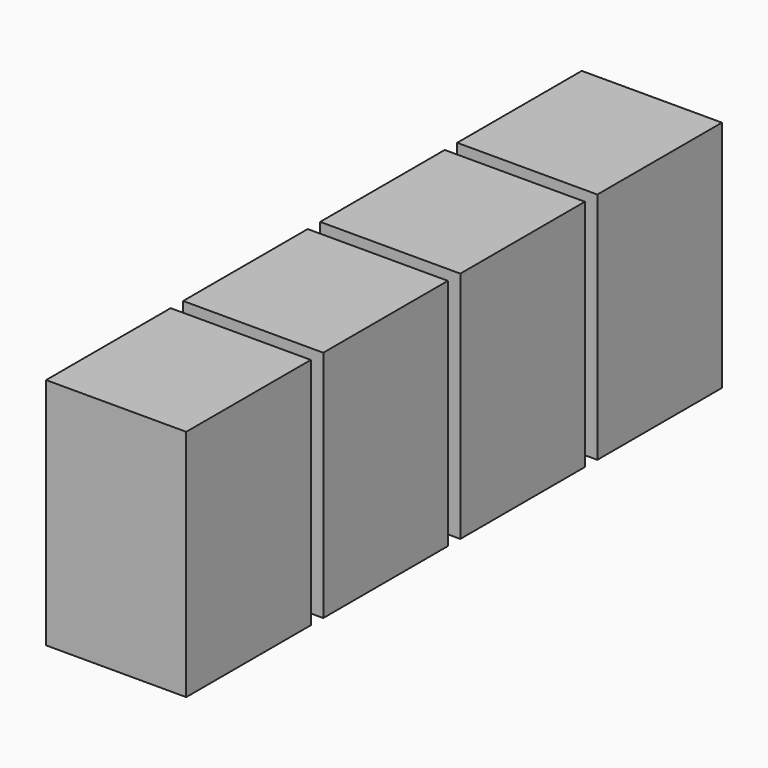
from build123d import *

# Parameters (mm, degrees)
BOX005_W     = 9
BOX005_H     = 10
BOX005_DEPTH = 15
BOX006_W     = 9
BOX006_H     = 10
BOX006_DEPTH = 15
BOX007_W     = 9
BOX007_H     = 10
BOX007_DEPTH = 15
BOX004_W     = 9
BOX004_H     = 10
BOX004_DEPTH = 15


with BuildPart() as cube005:
    # Box005 → Box005 (new body)
    with BuildSketch(Plane(origin=(2.5, 24, 0), x_dir=(1, 0, 0), z_dir=(0, 0, 1))):
        with Locations((4.5, 5)):
            Rectangle(BOX005_W, BOX005_H)
    extrude(amount=BOX005_DEPTH)


with BuildPart() as cube006:
    # Box006 → Box006 (new body)
    with BuildSketch(Plane(origin=(2.5, 35, 0), x_dir=(1, 0, 0), z_dir=(0, 0, 1))):
        with Locations((4.5, 5)):
            Rectangle(BOX006_W, BOX006_H)
    extrude(amount=BOX006_DEPTH)


with BuildPart() as cube007:
    # Box007 → Box007 (new body)
    with BuildSketch(Plane(origin=(2.5, 46, 0), x_dir=(1, 0, 0), z_dir=(0, 0, 1))):
        with Locations((4.5, 5)):
            Rectangle(BOX007_W, BOX007_H)
    extrude(amount=BOX007_DEPTH)


with BuildPart() as inputs:
    # Box004 → Box004 (new body)
    with BuildSketch(Plane(origin=(2.5, 13, 0), x_dir=(1, 0, 0), z_dir=(0, 0, 1))):
        with Locations((4.5, 5)):
            Rectangle(BOX004_W, BOX004_H)
    extrude(amount=BOX004_DEPTH)

    # Fusion001: union Cube005, Cube006, Cube007
    add(cube005.part)
    add(cube006.part)
    add(cube007.part)


solid = inputs.part
